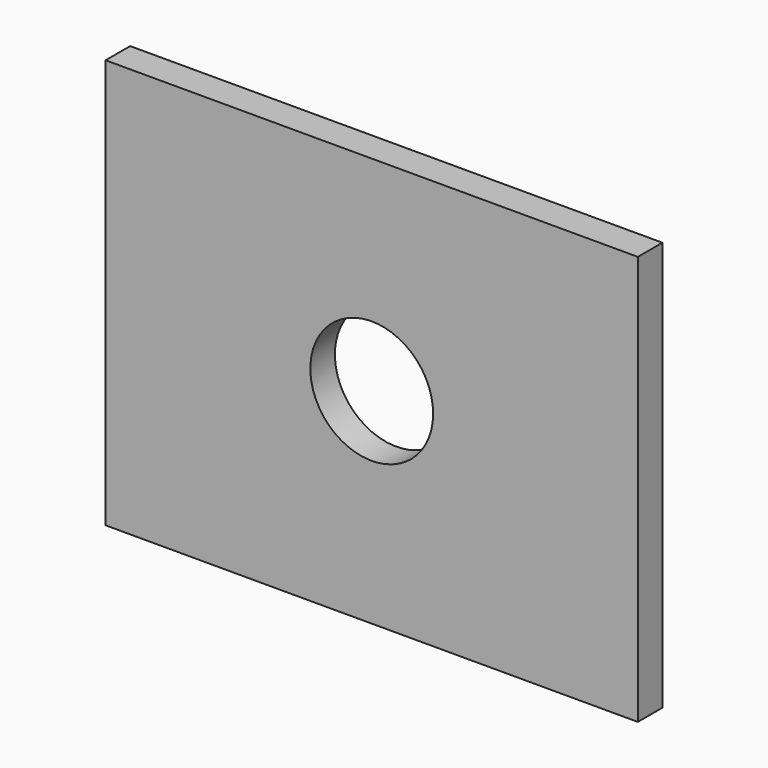
from build123d import *

# Parameters (mm, degrees)
F0_W     = 165.1
F0_H     = 127
F1_DEPTH = 9.525
F2_R     = 19.05
F3_DEPTH = 9.526


with BuildPart() as f1:
    # F0 (on Front) → F1 (new body)
    with BuildSketch(Plane.XZ):
        Rectangle(F0_W, F0_H)
    extrude(amount=F1_DEPTH)

    # F2 (on face) → F3 (cut, through all)
    with BuildSketch(Plane.XZ.offset(9.525)):
        Circle(F2_R)
    extrude(amount=-F3_DEPTH, mode=Mode.SUBTRACT)


solid = f1.part
